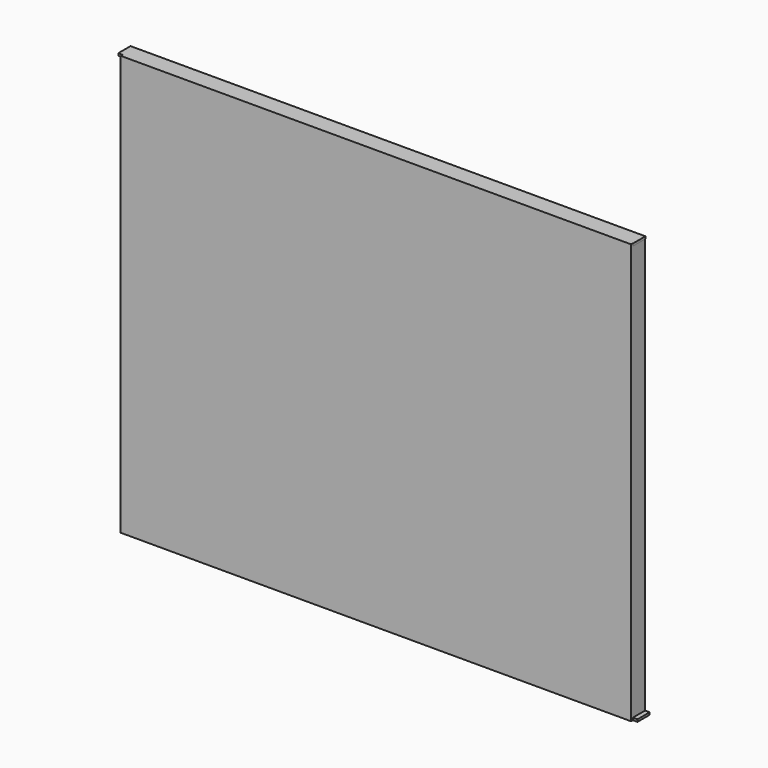
from build123d import *

# Parameters (mm, degrees)
F0_W     = 4.7752
F0_H     = 869.95
F1_DEPTH = 1057.275
F2_W     = 4.7752
F2_H     = 869.95
F3_DEPTH = 31.75
F4_W     = 4.7752
F4_H     = 869.95
F5_DEPTH = 31.75
F6_W     = 1066.8
F6_H     = 4.7752
F7_DEPTH = 31.75
F8_W     = 1066.8
F8_H     = 4.7752
F9_DEPTH = 31.75


with BuildPart() as f1:
    # F0 (on Right) → F1 (new body)
    with BuildSketch(Plane.YZ):
        with Locations((-40.927166, 359.425986)):
            Rectangle(F0_W, F0_H)
    extrude(amount=F1_DEPTH)

    # F2 (on face) → F3 (join)
    with BuildSketch(Plane(origin=(0, -38.539566, 0), x_dir=(-1, 0, 0), z_dir=(0, 1, 0))):
        with Locations((-1054.8874, 359.425986)):
            Rectangle(F2_W, F2_H)
    extrude(amount=F3_DEPTH)

    # F4 (on face) → F5 (join)
    with BuildSketch(Plane(origin=(0, -38.539566, 0), x_dir=(-1, 0, 0), z_dir=(0, 1, 0))):
        with Locations((-2.3876, 359.425986)):
            Rectangle(F4_W, F4_H)
    extrude(amount=F5_DEPTH)

    # F6 (on face) → F7 (join)
    with BuildSketch(Plane(origin=(0, -38.539566, 0), x_dir=(-1, 0, 0), z_dir=(0, 1, 0))):
        with Locations((-533.4, -73.161414)):
            Rectangle(F6_W, F6_H)
    extrude(amount=F7_DEPTH)

    # F8 (on face) → F9 (join)
    with BuildSketch(Plane(origin=(0, -38.539566, 0), x_dir=(-1, 0, 0), z_dir=(0, 1, 0))):
        with Locations((-524.438678, 792.013386)):
            Rectangle(F8_W, F8_H)
    extrude(amount=F9_DEPTH)


solid = f1.part
